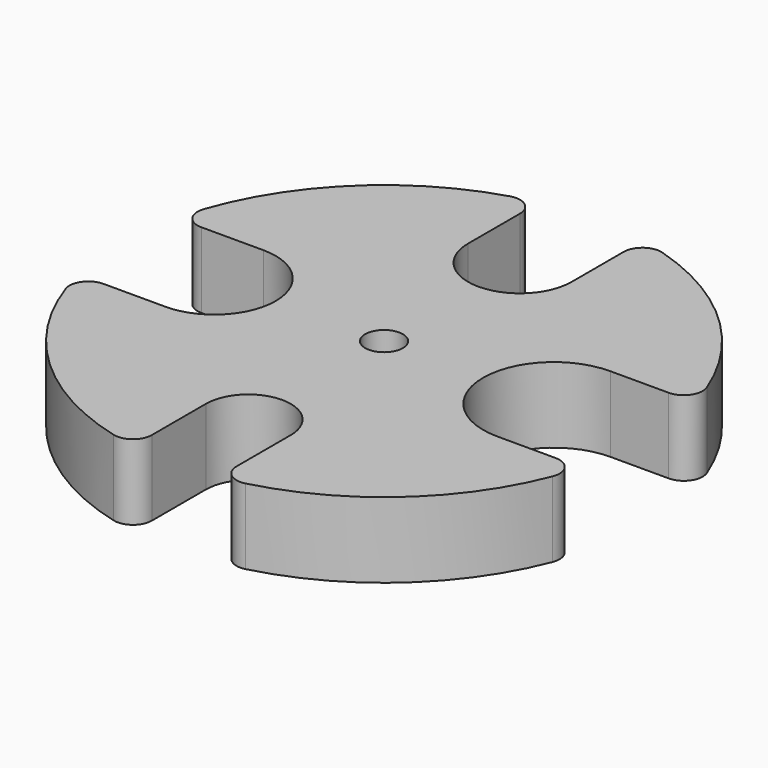
from build123d import *

# Parameters (mm, degrees)
F0_R      = 44.45
F1_DEPTH  = 12.7
F3_DEPTH  = 12.7
F5_DEPTH  = 12.7
F7_DEPTH  = 25.4
F9_DEPTH  = 12.7
F10_R     = 3.175
F11_DEPTH = 12.7
F12_R     = 3.175


with BuildPart() as f1:
    # F0 (on Top) → F1 (new body)
    with BuildSketch(Plane.XY):
        Circle(F0_R)
    extrude(amount=F1_DEPTH)

    # F2 (on face) → F3 (cut)
    with BuildSketch(Plane.XY.offset(12.7)):
        with BuildLine():
            ThreePointArc((-28.575, -10.3124), (-18.2626, 0), (-28.575, 10.3124))
            Line((-28.575, 10.3124), (-43.2372166801, 10.3124))
            ThreePointArc((-43.2372166801, 10.3124), (-44.45, 0), (-43.2372166801, -10.3124))
            Line((-43.2372166801, -10.3124), (-28.575, -10.3124))
        make_face()
    extrude(amount=-F3_DEPTH, mode=Mode.SUBTRACT)

    # F4 (on face) → F5 (cut)
    with BuildSketch(Plane.XY.offset(12.7)):
        with BuildLine():
            Line((42.8275014446, 11.8999), (28.5877, 11.8999))
            ThreePointArc((28.5877, 11.8999), (16.6878, 0), (28.5877, -11.8999))
            Line((28.5877, -11.8999), (42.8275014446, -11.8999))
            ThreePointArc((42.8275014446, -11.8999), (44.45, 0), (42.8275014446, 11.8999))
        make_face()
    extrude(amount=-F5_DEPTH, mode=Mode.SUBTRACT)

    # F6 (on face) → F7 (cut)
    with BuildSketch(Plane.XY.offset(12.7)):
        with BuildLine():
            Line((-8.7249, 43.585302798), (-8.7249, 28.5877))
            ThreePointArc((-8.7249, 28.5877), (0, 19.8628), (8.7249, 28.5877))
            Line((8.7249, 28.5877), (8.7249, 43.585302798))
            ThreePointArc((8.7249, 43.585302798), (0, 44.45), (-8.7249, 43.585302798))
        make_face()
    extrude(amount=-F7_DEPTH, mode=Mode.SUBTRACT)

    # F8 (on face) → F9 (cut)
    with BuildSketch(Plane.XY.offset(12.7)):
        with BuildLine():
            ThreePointArc((7.1374, -28.575), (0, -21.4376), (-7.1374, -28.575))
            Line((-7.1374, -28.575), (-7.1374, -43.8732267019))
            ThreePointArc((-7.1374, -43.8732267019), (0, -44.45), (7.1374, -43.8732267019))
            Line((7.1374, -43.8732267019), (7.1374, -28.575))
        make_face()
    extrude(amount=-F9_DEPTH, mode=Mode.SUBTRACT)

    # F10 (on face) → F11 (cut, through all)
    with BuildSketch(Plane.XY.offset(12.7)):
        Circle(F10_R)
    extrude(amount=-F11_DEPTH, mode=Mode.SUBTRACT)

    # F12
    f12_edges = [f1.edges().sort_by_distance(p)[0] for p in [
        (42.827501, -11.8999, 6.35),
        (42.827501, 11.8999, 6.35),
        (8.7249, 43.585303, 6.35),
        (-8.7249, 43.585303, 6.35),
        (7.1374, -43.873227, 6.35),
        (-7.1374, -43.873227, 6.35),
        (-43.237217, -10.3124, 6.35),
        (-43.237217, 10.3124, 6.35),
    ]]
    fillet(f12_edges, radius=F12_R)


solid = f1.part
